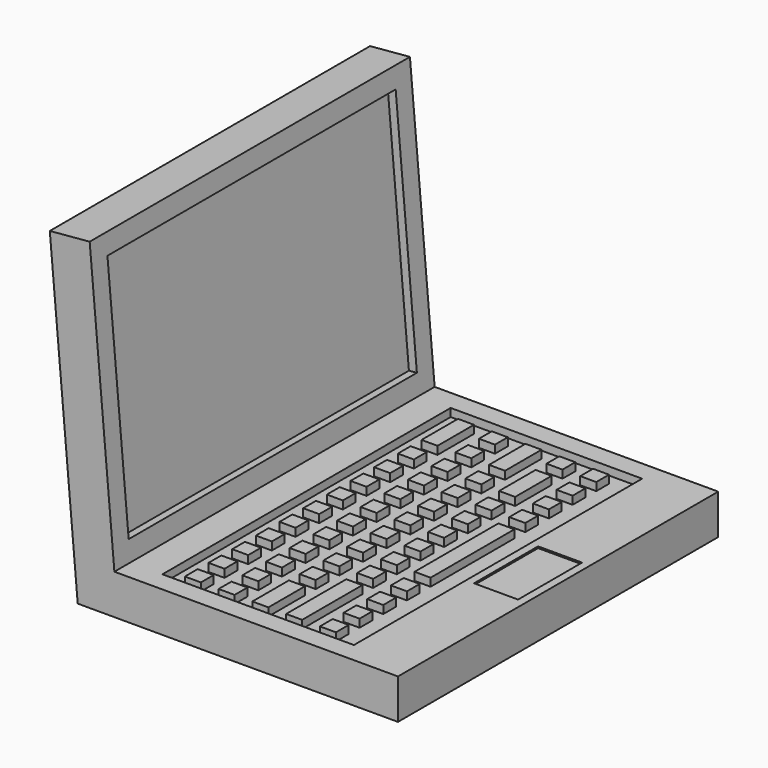
from build123d import *

# Parameters (mm, degrees)
F1_DEPTH      = 31.75
F1_DEPTH_BACK = 31.75
F2_W          = 30.376297045
F2_H          = 57.15
F3_DEPTH      = 1.27
F4_W          = 57.15
F4_H          = 38.631297045
F5_DEPTH      = 1.27
F6_W          = 2.54
F6_H          = 2.54
F6_H_2        = 16.61816
F7_DEPTH      = 1.27
F8_W          = 6.985
F8_H          = 12.7
F9_DEPTH      = 0.254


with BuildPart() as f1:
    # F0 (on Front) → F1 (new body, two sides)
    with BuildSketch(Plane.XZ) as f1_sk:
        Polygon((-3.9203783537, 44.8101296295), (-10.2462146866, 44.2566906631), (-5.818702955, -6.35), (44.981297045, -6.35), (44.981297045, 0), (0, 0), align=None)
    extrude(amount=F1_DEPTH)
    extrude(f1_sk.sketch, amount=-F1_DEPTH_BACK)

    # F2 (on face) → F3 (cut)
    with BuildSketch(Plane.XY):
        with Locations((20.2681485225, 0)):
            Rectangle(F2_W, F2_H)
    extrude(amount=-F3_DEPTH, mode=Mode.SUBTRACT)

    # F4 (on face) → F5 (cut)
    with BuildSketch(Plane(origin=(0, 0, 0), x_dir=(0, 1, 0), z_dir=(0.9961946981, 0, 0.0871557427))):
        with Locations((0, 22.4906485225)):
            Rectangle(F4_W, F4_H)
    extrude(amount=-F5_DEPTH, mode=Mode.SUBTRACT)

    # F6 (on face) → F7 (join)
    with BuildSketch(Plane.XY.offset(-1.27)):
        with Locations((8.89, -26.035)):
            Rectangle(F6_W, F6_H)
        with Locations((8.89, -21.34228)):
            Rectangle(F6_W, F6_H)
        with Locations((8.89, -16.64956)):
            Rectangle(F6_W, F6_H)
        with Locations((8.89, -11.95684)):
            Rectangle(F6_W, F6_H)
        with Locations((8.89, -7.26412)):
            Rectangle(F6_W, F6_H)
        with Locations((8.89, -2.5714)):
            Rectangle(F6_W, F6_H)
        with Locations((8.89, 2.12132)):
            Rectangle(F6_W, F6_H)
        with Locations((8.89, 6.81404)):
            Rectangle(F6_W, F6_H)
        with Locations((8.89, 11.50676)):
            Rectangle(F6_W, F6_H)
        with Locations((8.89, 16.19948)):
            Rectangle(F6_W, F6_H)
        Polygon((7.62, 19.6222), (10.16, 19.6222), (10.16, 22.1622), (10.16, 24.31492), (10.16, 26.85492), (7.62, 26.85492), (7.62, 24.31492), (7.62, 22.1622), align=None)
        with Locations((14.24642, -26.035)):
            Rectangle(F6_W, F6_H)
        with Locations((14.24642, -21.34228)):
            Rectangle(F6_W, F6_H)
        with Locations((14.24642, -16.64956)):
            Rectangle(F6_W, F6_H)
        with Locations((14.24642, -11.95684)):
            Rectangle(F6_W, F6_H)
        with Locations((14.24642, -7.26412)):
            Rectangle(F6_W, F6_H)
        with Locations((14.24642, -2.5714)):
            Rectangle(F6_W, F6_H)
        with Locations((14.24642, 2.12132)):
            Rectangle(F6_W, F6_H)
        with Locations((14.24642, 6.81404)):
            Rectangle(F6_W, F6_H)
        with Locations((14.24642, 11.50676)):
            Rectangle(F6_W, F6_H)
        with Locations((14.24642, 16.19948)):
            Rectangle(F6_W, F6_H)
        with Locations((14.24642, 20.8922)):
            Rectangle(F6_W, F6_H)
        with Locations((14.24642, 25.58492)):
            Rectangle(F6_W, F6_H)
        Polygon((18.33284, -27.305), (20.87284, -27.305), (20.87284, -24.765), (20.87284, -22.61228), (20.87284, -20.07228), (18.33284, -20.07228), (18.33284, -22.61228), (18.33284, -24.765), align=None)
        with Locations((19.60284, -16.64956)):
            Rectangle(F6_W, F6_H)
        with Locations((19.60284, -11.95684)):
            Rectangle(F6_W, F6_H)
        with Locations((19.60284, -7.26412)):
            Rectangle(F6_W, F6_H)
        with Locations((19.60284, -2.5714)):
            Rectangle(F6_W, F6_H)
        with Locations((19.60284, 2.12132)):
            Rectangle(F6_W, F6_H)
        with Locations((19.60284, 6.81404)):
            Rectangle(F6_W, F6_H)
        with Locations((19.60284, 11.50676)):
            Rectangle(F6_W, F6_H)
        with Locations((19.60284, 16.19948)):
            Rectangle(F6_W, F6_H)
        Polygon((18.33284, 19.6222), (20.87284, 19.6222), (20.87284, 22.1622), (20.87284, 24.31492), (20.87284, 26.85492), (18.33284, 26.85492), (18.33284, 24.31492), (18.33284, 22.1622), align=None)
        Polygon((23.68926, -27.305), (26.22926, -27.305), (26.22926, -24.765), (26.22926, -22.61228), (26.22926, -20.07228), (26.22926, -17.91956), (26.22926, -15.37956), (23.68926, -15.37956), (23.68926, -17.91956), (23.68926, -20.07228), (23.68926, -22.61228), (23.68926, -24.765), align=None)
        with Locations((24.95926, -11.95684)):
            Rectangle(F6_W, F6_H)
        with Locations((24.95926, -7.26412)):
            Rectangle(F6_W, F6_H)
        with Locations((24.95926, -2.5714)):
            Rectangle(F6_W, F6_H)
        with Locations((24.95926, 2.12132)):
            Rectangle(F6_W, F6_H)
        with Locations((24.95926, 6.81404)):
            Rectangle(F6_W, F6_H)
        with Locations((24.95926, 11.50676)):
            Rectangle(F6_W, F6_H)
        Polygon((23.68926, 14.92948), (26.22926, 14.92948), (26.22926, 17.46948), (26.22926, 19.6222), (26.22926, 22.1622), (23.68926, 22.1622), (23.68926, 19.6222), (23.68926, 17.46948), align=None)
        with Locations((24.95926, 25.58492)):
            Rectangle(F6_W, F6_H)
        with Locations((30.31568, -26.035)):
            Rectangle(F6_W, F6_H)
        with Locations((30.31568, -21.34228)):
            Rectangle(F6_W, F6_H)
        with Locations((30.31568, -16.64956)):
            Rectangle(F6_W, F6_H)
        with Locations((30.31568, -11.95684)):
            Rectangle(F6_W, F6_H)
        with Locations((30.31568, 11.50676)):
            Rectangle(F6_W, F6_H)
        with Locations((30.31568, 16.19948)):
            Rectangle(F6_W, F6_H)
        with Locations((30.31568, 20.8922)):
            Rectangle(F6_W, F6_H)
        with Locations((30.31568, 25.58492)):
            Rectangle(F6_W, F6_H)
        with Locations((30.31568, -0.22504)):
            Rectangle(F6_W, F6_H_2)
    extrude(amount=F7_DEPTH)

    # F8 (on face) → F9 (cut)
    with BuildSketch(Plane.XY):
        with Locations((40.218797045, 0)):
            Rectangle(F8_W, F8_H)
    extrude(amount=-F9_DEPTH, mode=Mode.SUBTRACT)


solid = f1.part
